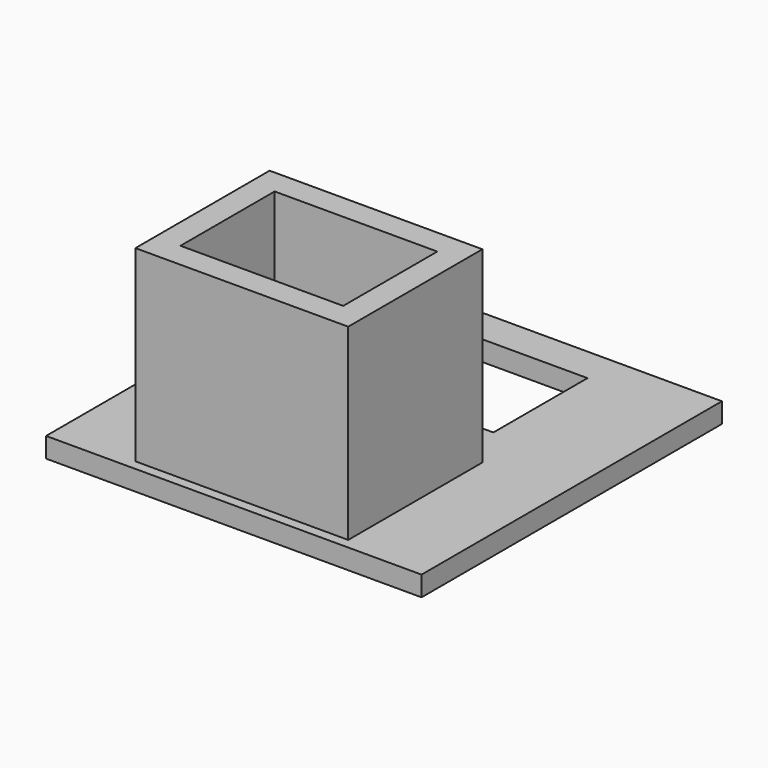
from build123d import *

# Parameters (mm, degrees)
F0_W     = 30
F0_H     = 30
F1_DEPTH = 1.6
F2_W     = 13
F2_H     = 9.4
F3_DEPTH = 25
F2_W_2   = 17
F2_H_2   = 13.4
F4_DEPTH = 15
F5_DEPTH = 25


with BuildPart() as f1:
    # F0 (on Top) → F1 (new body)
    with BuildSketch(Plane.XY):
        with Locations((15, -15)):
            Rectangle(F0_W, F0_H)
    extrude(amount=F1_DEPTH)

    # F2 (on face) → F3 (cut)
    with BuildSketch(Plane.XY.offset(1.6)):
        with Locations((15, -7.5)):
            Rectangle(F2_W, F2_H)
    extrude(amount=-F3_DEPTH, mode=Mode.SUBTRACT)

    # F2 (on face) → F4 (join)
    with BuildSketch(Plane.XY.offset(1.6)):
        with Locations((15, -22.5)):
            Rectangle(F2_W_2, F2_H_2)
        with Locations((15, -22.5)):
            Rectangle(F2_W, F2_H, mode=Mode.SUBTRACT)
    extrude(amount=F4_DEPTH)

    # F2 (on face) → F5 (cut)
    with BuildSketch(Plane.XY.offset(1.6)):
        with Locations((15, -22.5)):
            Rectangle(F2_W, F2_H)
    extrude(amount=-F5_DEPTH, mode=Mode.SUBTRACT)


solid = f1.part
